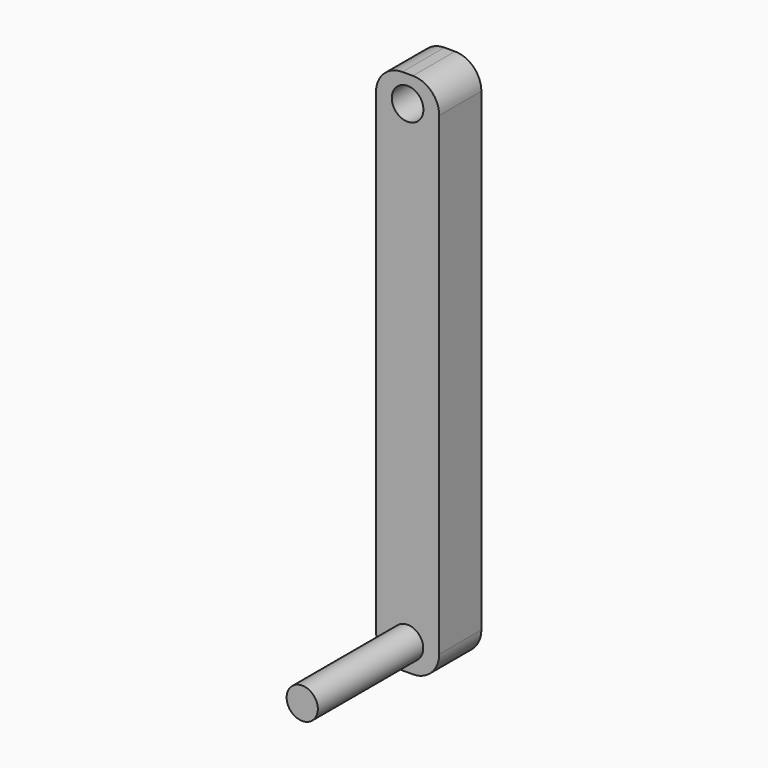
from build123d import *

# Parameters (mm, degrees)
F0_R     = 2.9651856051
F1_DEPTH = 10
F2_DEPTH = 35
F3_D     = 6


with BuildPart() as f1:
    # F0 (on Front) → F1 (new body)
    with BuildSketch(Plane.XZ):
        with BuildLine():
            Line((1, 50), (-1, 50))
            ThreePointArc((-1, 50), (-4.5355339059, 48.5355339059), (-6, 45))
            Line((-6, 45), (-6, -45))
            ThreePointArc((-6, -45), (-4.5355339059, -48.5355339059), (-1, -50))
            Line((-1, -50), (1, -50))
            ThreePointArc((1, -50), (4.5355339059, -48.5355339059), (6, -45))
            Line((6, -45), (6, 45))
            ThreePointArc((6, 45), (4.5355339059, 48.5355339059), (1, 50))
        make_face()
        with Locations((0, -45)):
            Circle(F0_R, mode=Mode.SUBTRACT)
        with Locations((0, -45)):
            Circle(F0_R)
    extrude(amount=F1_DEPTH)

    # F0 (on Front) → F2 (join)
    with BuildSketch(Plane.XZ):
        with Locations((0, -45)):
            Circle(F0_R)
    extrude(amount=F2_DEPTH)

    # F3 (through all)
    with Locations(Plane(origin=(0, 0, 0), x_dir=(1, 0, 0), z_dir=(0, 1, 0))):
        with Locations((0, -45)):
            Hole(F3_D / 2)


solid = f1.part
